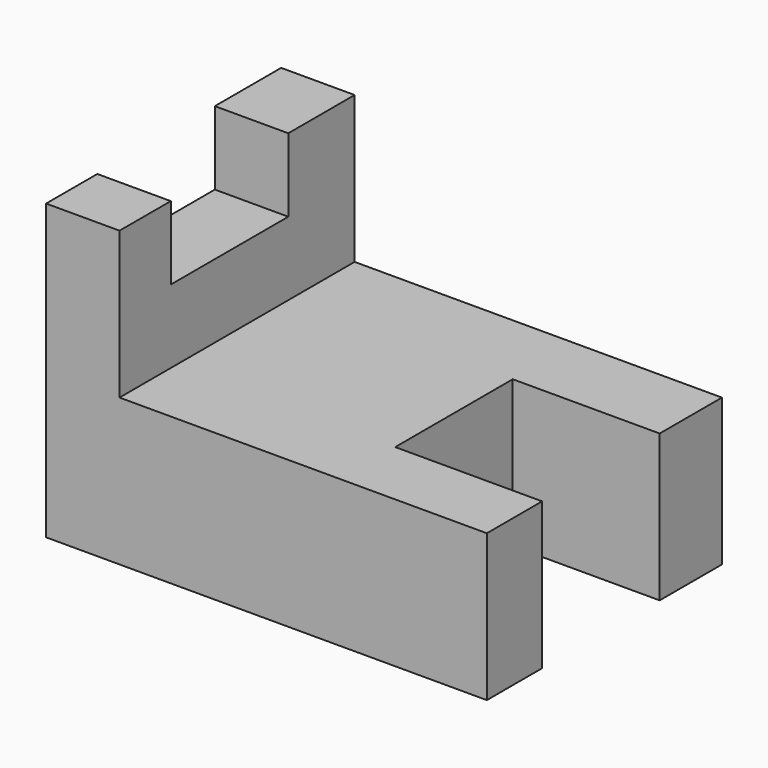
from build123d import *

# Parameters (mm, degrees)
F1_DEPTH = 25.4
F2_W     = 12.7
F2_H     = 6.35
F3_DEPTH = 35.052
F4_W     = 12.7
F4_H     = 12.7
F5_DEPTH = 30.48


with BuildPart() as f1:
    # F0 (on Front) → F1 (new body)
    with BuildSketch(Plane.XZ):
        Polygon((0, 25.4), (0, 0), (38.1, 0), (38.1, 12.7), (6.35, 12.7), (6.35, 25.4), align=None)
    extrude(amount=F1_DEPTH)

    # F2 (on Right) → F3 (cut)
    with BuildSketch(Plane.YZ):
        with Locations((-13.51531, 22.225)):
            Rectangle(F2_W, F2_H)
    extrude(amount=F3_DEPTH, mode=Mode.SUBTRACT)

    # F4 (on face) → F5 (cut)
    with BuildSketch(Plane.XY.offset(12.7)):
        with Locations((31.75, -13.076296)):
            Rectangle(F4_W, F4_H)
    extrude(amount=-F5_DEPTH, mode=Mode.SUBTRACT)


solid = f1.part
